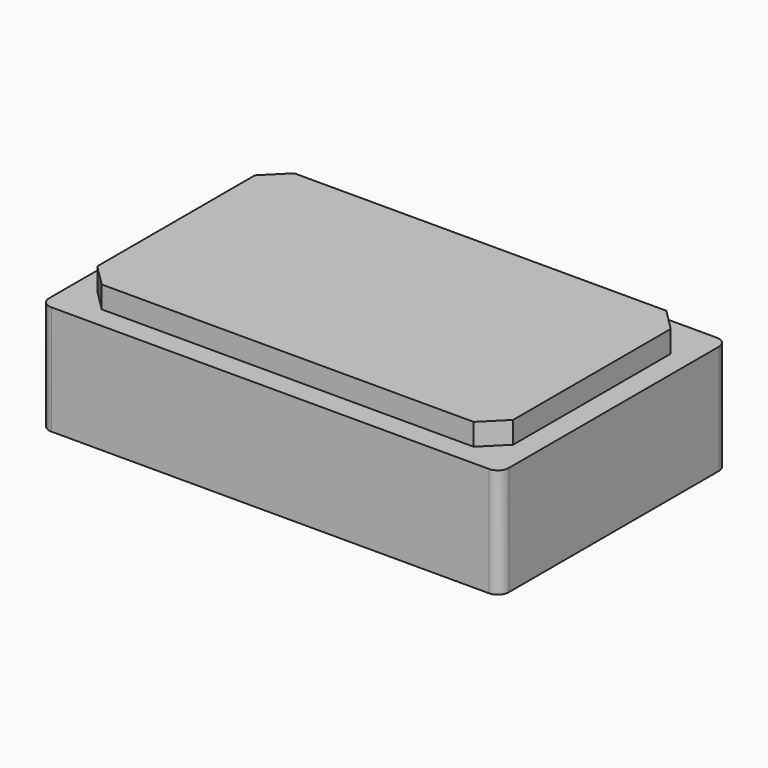
from build123d import *

# Parameters (mm, degrees)
F1_DEPTH = 0.5
F2_W     = 1.9
F2_H     = 1.1
F3_DEPTH = 0.1
F4_W     = 0.6
F4_H     = 1.1
F5_DEPTH = 0.01
F6_SIZE  = 0.1


with BuildPart() as f1:
    # F0 (on Top) → F1 (new body)
    with BuildSketch(Plane.XY):
        with BuildLine():
            Line((1, 0.65), (-0.95, 0.65))
            ThreePointArc((-0.95, 0.65), (-1.020711, 0.620711), (-1.05, 0.55))
            Line((-1.05, 0.55), (-1.05, -0.6))
            ThreePointArc((-1.05, -0.6), (-1.035355, -0.635355), (-1, -0.65))
            Line((-1, -0.65), (1, -0.65))
            ThreePointArc((1, -0.65), (1.035355, -0.635355), (1.05, -0.6))
            Line((1.05, -0.6), (1.05, 0.6))
            ThreePointArc((1.05, 0.6), (1.035355, 0.635355), (1, 0.65))
        make_face()
    extrude(amount=F1_DEPTH)

    # F2 (on face) → F3 (join)
    with BuildSketch(Plane.XY.offset(0.5)):
        Rectangle(F2_W, F2_H)
    extrude(amount=F3_DEPTH)

    # F4 (on face) → F5 (join)
    with BuildSketch(Plane(origin=(0, 0, 0), x_dir=(1, 0, 0), z_dir=(0, 0, -1))):
        with Locations((0.7, 0)):
            Rectangle(F4_W, F4_H)
        with Locations((-0.7, 0)):
            Rectangle(F4_W, F4_H)
    extrude(amount=F5_DEPTH)

    # F6
    f6_edges = [f1.edges().sort_by_distance(p)[0] for p in [
        (0.95, -0.55, 0.55),
        (0.95, 0.55, 0.55),
        (-0.95, 0.55, 0.55),
        (-0.95, -0.55, 0.55),
    ]]
    chamfer(f6_edges, length=F6_SIZE)


solid = f1.part
